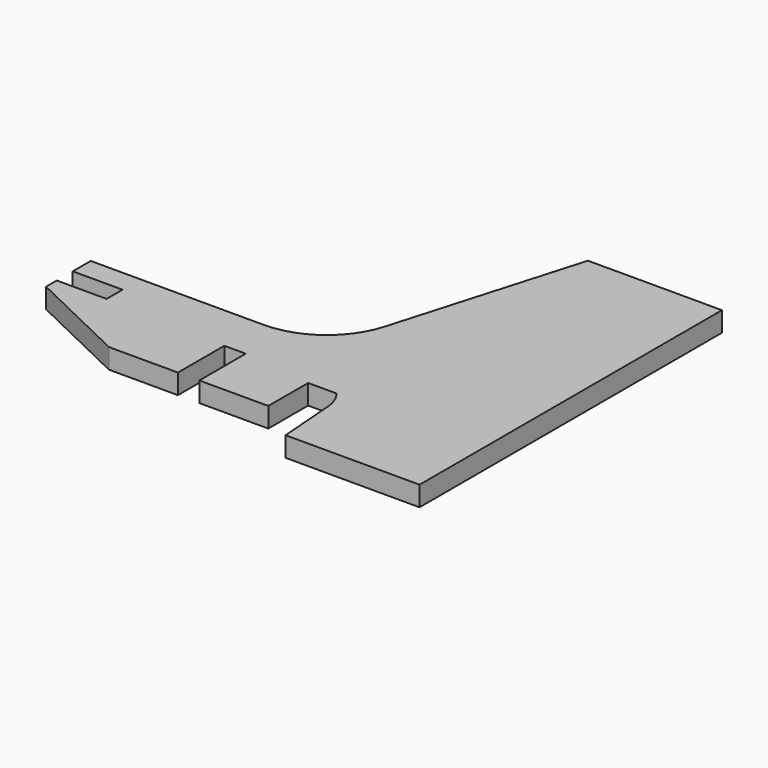
from build123d import *

# Parameters (mm, degrees)
PAD_DEPTH = 2


with BuildPart() as part:
    # CopySketch004 → Pad (new body, symmetric)
    with BuildSketch(Plane.XY):
        with BuildLine():
            Line((-36.508492, 11.060009), (-1.723702, 11.060009))
            ThreePointArc((-1.723702, 11.060009), (7.733856, 14.212769), (13.407871, 22.409771))
            Line((13.407871, 22.409771), (24.319128, 59.832547))
            Line((24.319128, 59.832547), (51.226102, 59.832547))
            Line((51.226102, 59.832547), (51.226102, -16.067453))
            Line((24.319128, -16.067453), (51.226102, -16.067453))
            Line((23.401691, -4.060687), (24.319128, -16.067453))
            ThreePointArc((23.401691, -4.060687), (22.843077, -1.909417), (21.705474, 0))
            Line((16, 0), (21.705474, 0))
            Line((16, -10), (16, 0))
            Line((2.15, -10), (16, -10))
            Line((2.15, 1.647389), (2.15, -10))
            Line((-2.15, 1.647389), (2.15, 1.647389))
            Line((-2.15, -10), (-2.15, 1.647389))
            Line((-16, -10), (-2.15, -10))
            Line((-16, -10), (-36.508492, -0.144815))
            Line((-36.508492, 2.549264), (-36.508492, -0.144815))
            Line((-26.508492, 2.549264), (-36.508492, 2.549264))
            Line((-26.508492, 6.549264), (-26.508492, 2.549264))
            Line((-36.508492, 6.549264), (-26.508492, 6.549264))
            Line((-36.508492, 11.060009), (-36.508492, 6.549264))
        make_face()
    extrude(amount=PAD_DEPTH, both=True)


solid = part.part
